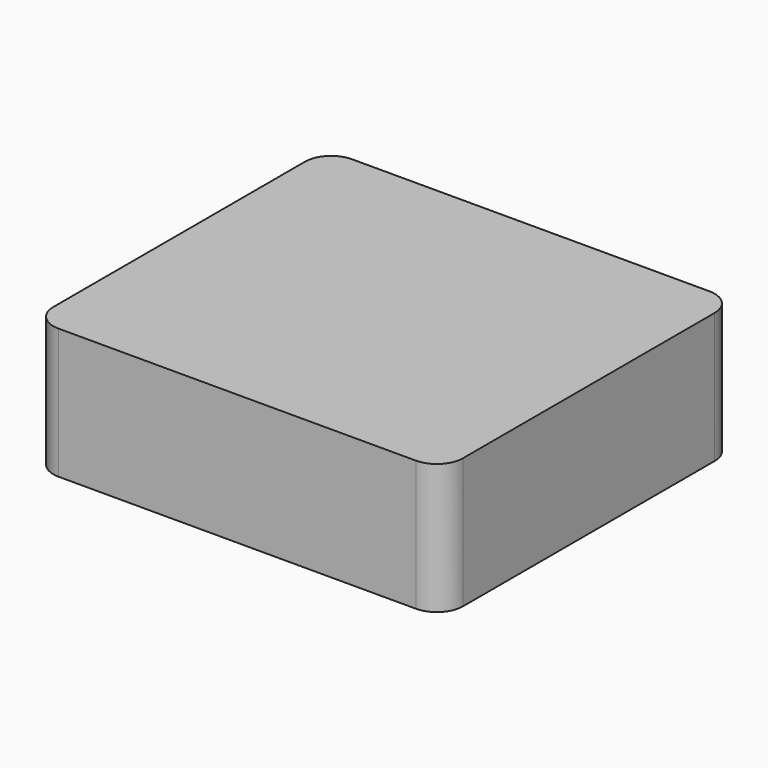
from build123d import *

# Parameters (mm, degrees)
F0_W     = 79.77876
F0_H     = 71.454018
F1_DEPTH = 12.7
F2_R     = 5.08


with BuildPart() as f1:
    # F0 (on Top) → F1 (new body, symmetric)
    with BuildSketch(Plane.XY):
        Rectangle(F0_W, F0_H)
    extrude(amount=F1_DEPTH, both=True)

    # F2
    f2_edges = [f1.edges().sort_by_distance(p)[0] for p in [
        (39.88938, 35.727009, 0),
        (-39.88938, 35.727009, 0),
        (-39.88938, -35.727009, 0),
        (39.88938, -35.727009, 0),
    ]]
    fillet(f2_edges, radius=F2_R)


solid = f1.part
